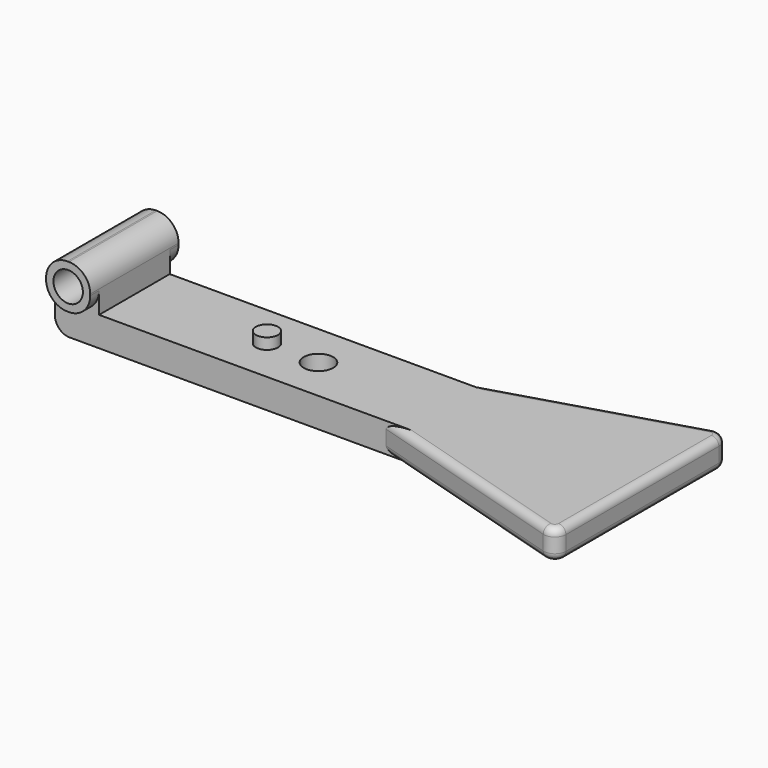
from build123d import *

# Parameters (mm, degrees)
PAD_DEPTH       = 4
FILLET_R        = 1.5
FILLET001_R     = 1
SKETCH003_R     = 1.5
PAD003_DEPTH    = 2
FILLET002_R     = 2
SKETCH004_W     = 6
SKETCH004_H     = 15
PAD004_DEPTH    = 6
SKETCH005_R     = 2
POCKET_DEPTH    = 21.984954
FILLET003_R     = 2.9
SKETCH006_R     = 2
POCKET001_DEPTH = 4.001


with BuildPart() as part:
    # Sketch → Pad (new body)
    with BuildSketch(Plane.XY):
        Polygon((0, 6), (-45, 6), (-45, -6), (0, -6), (30, -15), (30, 15), align=None)
    extrude(amount=PAD_DEPTH)

    # Fillet
    fillet_edges = [part.edges().sort_by_distance(p)[0] for p in [
        (30, 15, 2),
        (30, -15, 2),
    ]]
    fillet(fillet_edges, radius=FILLET_R)

    # Fillet001
    fillet001_edges = [part.edges().sort_by_distance(p)[0] for p in [
        (14.034489, 10.210347, 4),
        (14.034489, 10.210347, 0),
        (29.395396, 14.187393, 0),
        (29.395396, 14.187393, 4),
        (30, 0, 4),
        (30, 0, 0),
        (14.034489, -10.210347, 4),
        (14.034489, -10.210347, 0),
        (29.395396, -14.187393, 0),
        (29.395396, -14.187393, 4),
    ]]
    fillet(fillet001_edges, radius=FILLET001_R)

    # Sketch003 → Pad003 (join)
    with BuildSketch(Plane.XY.offset(3.5)):
        with Locations((-21, 0)):
            Circle(SKETCH003_R)
    extrude(amount=PAD003_DEPTH)

    # Fillet002
    fillet002_edges = [part.edges().sort_by_distance(p)[0] for p in [
        (-45, 0, 0),
    ]]
    fillet(fillet002_edges, radius=FILLET002_R)

    # Sketch004 (on Face6 of Fillet002) → Pad004 (join)
    with BuildSketch(Plane.XY.offset(4)):
        with Locations((-42, 0)):
            Rectangle(SKETCH004_W, SKETCH004_H)
    extrude(amount=PAD004_DEPTH)

    # Sketch005 (on Face17 of Pad004) → Pocket (cut, through all)
    with BuildSketch(Plane.XZ.offset(7.5)):
        with Locations((-42, 7)):
            Circle(SKETCH005_R)
    extrude(amount=-POCKET_DEPTH, mode=Mode.SUBTRACT)

    # Fillet003
    fillet003_edges = [part.edges().sort_by_distance(p)[0] for p in [
        (-45, 0, 10),
        (-39, 0, 10),
        (-45, -6.75, 4),
        (-39, -6.75, 4),
        (-45, 6.75, 4),
        (-39, 6.75, 4),
    ]]
    fillet(fillet003_edges, radius=FILLET003_R)

    # Sketch006 (on Face8 of Fillet003) → Pocket001 (cut, through all)
    with BuildSketch(Plane.XY.offset(4)):
        with Locations((-14, 0)):
            Circle(SKETCH006_R)
    extrude(amount=-POCKET001_DEPTH, mode=Mode.SUBTRACT)


solid = part.part
